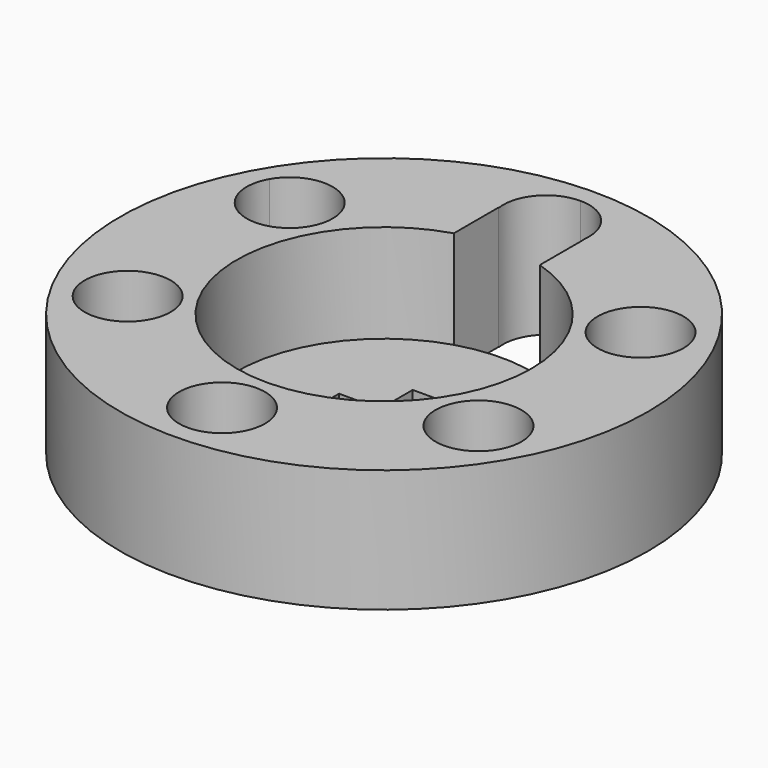
from build123d import *

# Parameters (mm, degrees)
F1_R     = 10.75
F2_DEPTH = 5
F3_DEPTH = 1
F0_W     = 1.6666666667
F0_H     = 1.6666666667
F4_DEPTH = 12.5


with BuildPart() as f2:
    # F1 (on Top) → F2 (new body)
    with BuildSketch(Plane.XY):
        Circle(F1_R)
        with BuildLine():
            ThreePointArc((-8.6602540538, 4.9999999724), (-5.0000000138, 8.6602540299), (0, 10))
            ThreePointArc((0, 10), (5.0000000138, 8.6602540299), (8.6602540538, 4.9999999724))
            ThreePointArc((8.6602540538, 4.9999999724), (9.659258267, 2.5881904356), (10, 0))
            ThreePointArc((10, 0), (9.6592582663, -2.5881904384), (8.6602540509, -4.9999999774))
            ThreePointArc((8.6602540509, -4.9999999774), (5.0000000086, -8.6602540329), (-6.2e-09, -10))
            ThreePointArc((-6.2e-09, -10), (-5.0000000165, -8.6602540283), (-8.6602540538, -4.9999999724))
            ThreePointArc((-8.6602540538, -4.9999999724), (-10, 0), (-8.6602540538, 4.9999999724))
        make_face(mode=Mode.SUBTRACT)
        with BuildLine():
            ThreePointArc((8.6602540538, 4.9999999724), (5.0000000138, 8.6602540299), (0, 10))
            ThreePointArc((0, 10), (-5.0000000138, 8.6602540299), (-8.6602540538, 4.9999999724))
            ThreePointArc((-8.6602540538, 4.9999999724), (-10, 0), (-8.6602540538, -4.9999999724))
            ThreePointArc((-8.6602540538, -4.9999999724), (-5.0000000165, -8.6602540283), (-6.2e-09, -10))
            ThreePointArc((-6.2e-09, -10), (5.0000000086, -8.6602540329), (8.6602540509, -4.9999999774))
            ThreePointArc((8.6602540509, -4.9999999774), (9.6592582663, -2.5881904384), (10, 0))
            ThreePointArc((10, 0), (9.659258267, 2.5881904356), (8.6602540538, 4.9999999724))
        make_face()
        with BuildLine():
            ThreePointArc((-5.3947095812, -4.125), (-6.6917762677, -5.8153702001), (-8.6602540538, -4.9999999724))
            ThreePointArc((-8.6602540538, -4.9999999724), (-7.5976428947, -2.4346297999), (-5.3947095812, -4.125))
        make_face(mode=Mode.SUBTRACT)
        with BuildLine():
            ThreePointArc((1.75, -8.25), (1.2374368649, -9.4874368693), (-6.2e-09, -10))
            ThreePointArc((-6.2e-09, -10), (-1.2374368649, -7.0125631307), (1.75, -8.25))
        make_face(mode=Mode.SUBTRACT)
        with BuildLine():
            ThreePointArc((8.8947095812, -4.125), (8.8350797806, -4.5779333163), (8.6602540509, -4.9999999774))
            ThreePointArc((8.6602540509, -4.9999999774), (5.4543393818, -3.6720666837), (8.8947095812, -4.125))
        make_face(mode=Mode.SUBTRACT)
        with BuildLine():
            ThreePointArc((-5.3947095812, 4.125), (-7.5976428947, 2.4346297999), (-8.6602540538, 4.9999999724))
            ThreePointArc((-8.6602540538, 4.9999999724), (-6.6917762677, 5.8153702001), (-5.3947095812, 4.125))
        make_face(mode=Mode.SUBTRACT)
        with BuildLine():
            ThreePointArc((1.75, 5.7391201416), (4.8218253805, 3.5707142143), (6, 0))
            ThreePointArc((6, 0), (-3.5707142143, -4.8218253805), (-1.75, 5.7391201416))
            Line((-1.75, 5.7391201416), (-1.75, 8))
            Line((-1.75, 8), (-1.7320508076, 8))
            ThreePointArc((-1.7320508076, 8), (-1.3228756555, 9.3956439237), (0, 10))
            ThreePointArc((0, 10), (1.2374368671, 9.4874368671), (1.75, 8.25))
            ThreePointArc((1.75, 8.25), (1.745506934, 8.1246782406), (1.7320508076, 8))
            Line((1.7320508076, 8), (1.75, 8))
            Line((1.75, 8), (1.75, 5.7391201416))
        make_face(mode=Mode.SUBTRACT)
        with BuildLine():
            ThreePointArc((8.8947095812, 4.125), (5.4543393811, 3.6720666865), (8.6602540538, 4.9999999724))
            ThreePointArc((8.6602540538, 4.9999999724), (8.8350797814, 4.5779333135), (8.8947095812, 4.125))
        make_face(mode=Mode.SUBTRACT)
    extrude(amount=F2_DEPTH)

    # F1 (on Top) → F3 (join)
    with BuildSketch(Plane.XY):
        with BuildLine():
            ThreePointArc((-1.75, 5.7391201416), (-3.5707142143, -4.8218253805), (6, 0))
            ThreePointArc((6, 0), (4.8218253805, 3.5707142143), (1.75, 5.7391201416))
            ThreePointArc((1.75, 5.7391201416), (0, 6), (-1.75, 5.7391201416))
        make_face()
    extrude(amount=F3_DEPTH)

    # F0 (on Top) → F4 (cut, symmetric)
    with BuildSketch(Plane.XY):
        with Locations((0, 1.6666666667)):
            Rectangle(F0_W, F0_H)
        Rectangle(F0_W, F0_H)
        with Locations((-1.6666666667, 0)):
            Rectangle(F0_W, F0_H)
        with Locations((1.6666666667, 0)):
            Rectangle(F0_W, F0_H)
        with Locations((0, -1.6666666667)):
            Rectangle(F0_W, F0_H)
    extrude(amount=F4_DEPTH, both=True, mode=Mode.SUBTRACT)


solid = f2.part
